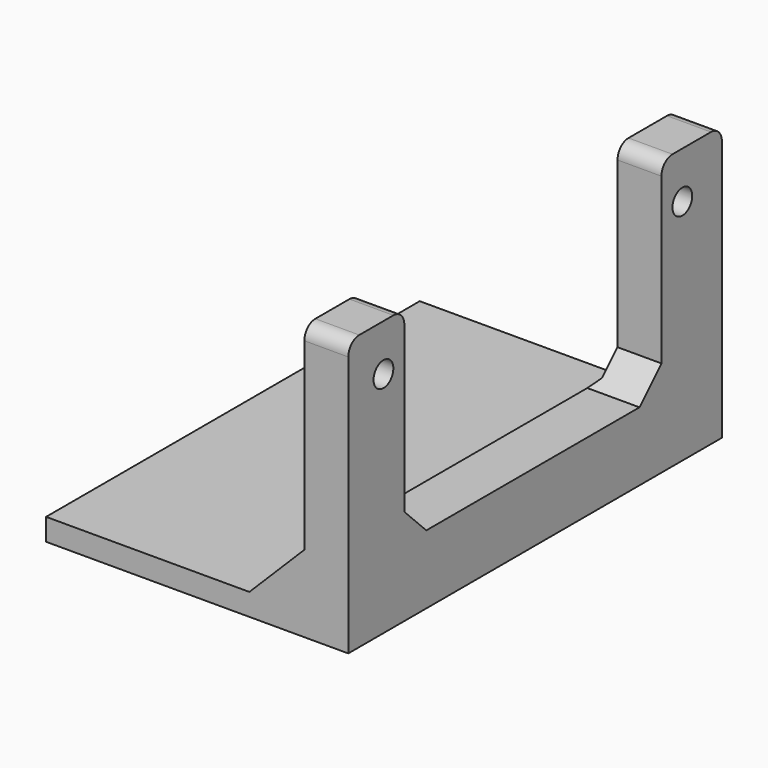
from build123d import *

# Parameters (mm, degrees)
PAD_DEPTH           = 34
PAD001_DEPTH        = 1.6
LINEARPATTERN_COUNT = 2
LINEARPATTERN_PITCH = 32.4
SKETCH_R            = 0.9
POCKET_DEPTH        = 22.001
SKETCH003_W         = 17
SKETCH003_H         = 23.4
POCKET001_DEPTH     = 22.001
FILLET_R            = 1
CHAMFER_SIZE        = 2


with BuildPart() as part:
    # Sketch001 → Pad (new body)
    with BuildSketch(Plane.XZ):
        Polygon((-22, 1.6), (-7.2, 1.6), (-3.2, 5.6), (-3.2, 20), (0, 20), (0, 0), (-22, 0), align=None)
    extrude(amount=PAD_DEPTH)

    # Sketch002 → Pad001 (join)
    with BuildSketch(Plane.XZ):
        Polygon((-6.6, 1.5), (-1.5, 6.6), (-1.5, 1.5), align=None)
    pad001 = extrude(amount=PAD001_DEPTH)

    # LinearPattern: Pad001 ×2
    with Locations(*[(0, -i * LINEARPATTERN_PITCH, 0) for i in range(1, LINEARPATTERN_COUNT)]):
        add(pad001)

    # Sketch (on DatumPlane) → Pocket (cut, through all)
    with BuildSketch(Plane(origin=(0, 0, 0), x_dir=(0, 0, 1), z_dir=(1, 0, 0))):
        with Locations((16.6, 30.8)):
            Circle(SKETCH_R)
        with Locations((16.6, 3.6)):
            Circle(SKETCH_R)
    extrude(amount=-POCKET_DEPTH, mode=Mode.SUBTRACT)

    # Sketch003 (on DatumPlane) → Pocket001 (cut, through all)
    with BuildSketch(Plane(origin=(0, 0, 0), x_dir=(0, 0, 1), z_dir=(1, 0, 0))):
        with Locations((13.5, 17.2)):
            Rectangle(SKETCH003_W, SKETCH003_H)
    extrude(amount=-POCKET001_DEPTH, mode=Mode.SUBTRACT)

    # Fillet
    fillet_edges = [part.edges().sort_by_distance(p)[0] for p in [
        (-1.6, -34, 20),
        (-1.6, -28.9, 20),
        (-1.6, -5.5, 20),
        (-1.6, 0, 20),
    ]]
    fillet(fillet_edges, radius=FILLET_R)

    # Chamfer
    chamfer_edges = [part.edges().sort_by_distance(p)[0] for p in [
        (-1.9, -28.9, 5),
        (-1.9, -5.5, 5),
    ]]
    chamfer(chamfer_edges, length=CHAMFER_SIZE)


solid = part.part
